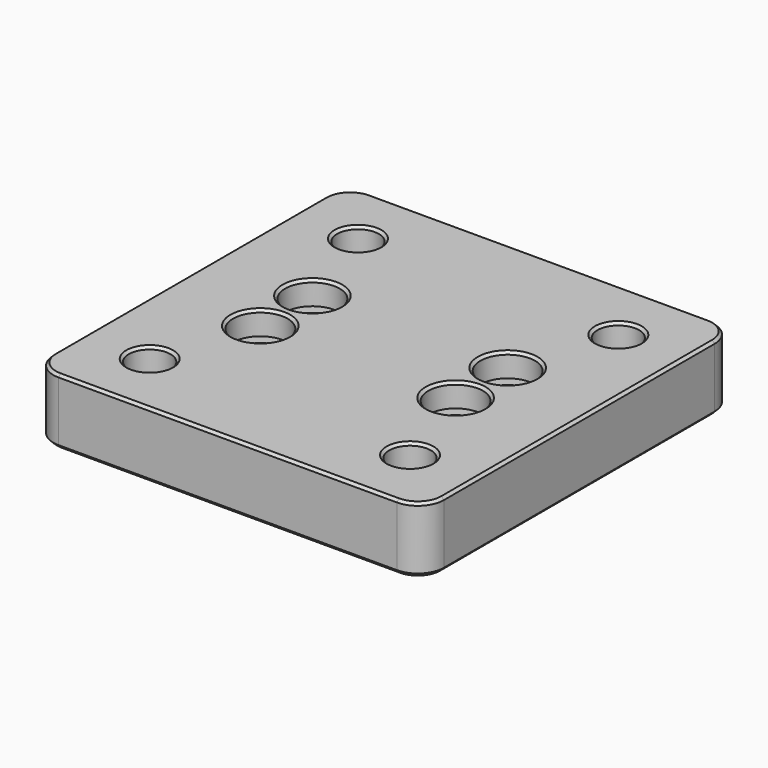
from build123d import *

# Parameters (mm, degrees)
SKETCH_W        = 60
SKETCH_H        = 60
PAD_DEPTH       = 10.15
SKETCH001_R     = 2.1
SKETCH001_R_2   = 3.2
POCKET_DEPTH    = 12
SKETCH002_R     = 4.2
POCKET001_DEPTH = 3.6
FILLET_R        = 4
CHAMFER_SIZE    = 0.4
CHAMFER001_SIZE = 0.4
CHAMFER002_SIZE = 0.6


with BuildPart() as part:
    # Sketch → Pad (new body)
    with BuildSketch(Plane.XY):
        with Locations((30, 30)):
            Rectangle(SKETCH_W, SKETCH_H)
    extrude(amount=PAD_DEPTH)

    # Sketch001 (on Face6 of Pad) → Pocket (cut)
    with BuildSketch(Plane.XY.offset(10.15)):
        with Locations((15, 35)):
            Circle(SKETCH001_R)
        with Locations((45, 35)):
            Circle(SKETCH001_R)
        with Locations((15, 25)):
            Circle(SKETCH001_R)
        with Locations((45, 25)):
            Circle(SKETCH001_R)
        with Locations((10, 50)):
            Circle(SKETCH001_R_2)
        with Locations((50, 50)):
            Circle(SKETCH001_R_2)
        with Locations((10, 10)):
            Circle(SKETCH001_R_2)
        with Locations((50, 10)):
            Circle(SKETCH001_R_2)
    extrude(amount=-POCKET_DEPTH, mode=Mode.SUBTRACT)

    # Sketch002 (on Face5 of Pocket) → Pocket001 (cut)
    with BuildSketch(Plane.XY.offset(10.15)):
        with Locations((15, 35)):
            Circle(SKETCH002_R)
        with Locations((45, 35)):
            Circle(SKETCH002_R)
        with Locations((45, 25)):
            Circle(SKETCH002_R)
        with Locations((15, 25)):
            Circle(SKETCH002_R)
    extrude(amount=-POCKET001_DEPTH, mode=Mode.SUBTRACT)

    # Fillet
    fillet_edges = [part.edges().sort_by_distance(p)[0] for p in [
        (60, 0, 5.075),
        (0, 0, 5.075),
        (0, 60, 5.075),
        (60, 60, 5.075),
    ]]
    fillet(fillet_edges, radius=FILLET_R)

    # Chamfer
    chamfer_edges = [part.edges().sort_by_distance(p)[0] for p in [
        (30, 60, 10.15),
        (1.171573, 58.828427, 10.15),
        (58.828427, 58.828427, 10.15),
        (0, 30, 10.15),
        (60, 30, 10.15),
        (1.171573, 1.171573, 10.15),
        (58.828427, 1.171573, 10.15),
        (30, 0, 10.15),
        (40.8, 35, 10.15),
        (46.8, 50, 10.15),
        (6.8, 50, 10.15),
        (10.8, 35, 10.15),
        (10.8, 25, 10.15),
        (40.8, 25, 10.15),
        (46.8, 10, 10.15),
        (6.8, 10, 10.15),
    ]]
    chamfer(chamfer_edges, length=CHAMFER_SIZE)

    # Chamfer001
    chamfer001_edges = [part.edges().sort_by_distance(p)[0] for p in [
        (42.9, 35, 6.55),
        (42.9, 25, 6.55),
        (12.9, 25, 6.55),
        (12.9, 35, 6.55),
    ]]
    chamfer(chamfer001_edges, length=CHAMFER001_SIZE)

    # Chamfer002
    chamfer002_edges = [part.edges().sort_by_distance(p)[0] for p in [
        (30, 60, 0),
        (1.171573, 58.828427, 0),
        (58.828427, 58.828427, 0),
        (0, 30, 0),
        (60, 30, 0),
        (1.171573, 1.171573, 0),
        (58.828427, 1.171573, 0),
        (30, 0, 0),
        (42.9, 25, 0),
        (42.9, 35, 0),
        (46.8, 50, 0),
        (6.8, 50, 0),
        (12.9, 25, 0),
        (12.9, 35, 0),
        (46.8, 10, 0),
        (6.8, 10, 0),
    ]]
    chamfer(chamfer002_edges, length=CHAMFER002_SIZE)


solid = part.part
